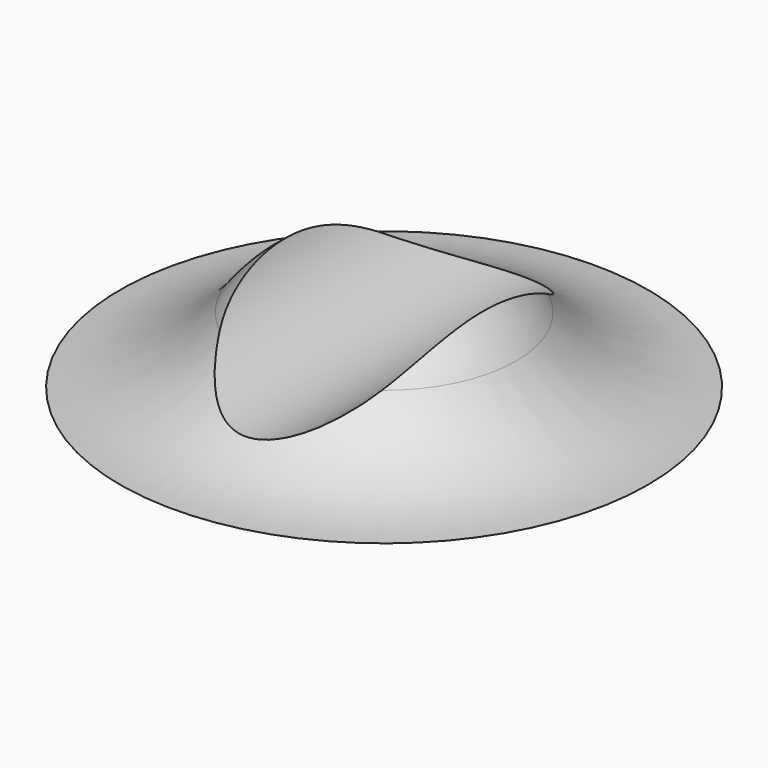
from build123d import *

# Parameters (mm, degrees)
F2_R     = 7.877214
F3_DEPTH = 50


with BuildPart() as f1:
    # F0 (on Front) → F1 (revolve)
    with BuildSketch(Plane.XZ):
        with BuildLine():
            Line((0, 10), (0, 0))
            Line((0, 0), (20, 0))
            ThreePointArc((20, 0), (14.40983, 1.31966), (10, 5))
            ThreePointArc((10, 5), (5.59017, 8.68034), (0, 10))
        make_face()
    revolve(axis=Axis((0, 0, 5), (0, 0, 1)))

    # F2 (on Front) → F3 (cut, symmetric)
    with BuildSketch(Plane.XZ):
        with Locations((0, 9.934433)):
            Circle(F2_R)
    extrude(amount=F3_DEPTH, both=True, mode=Mode.SUBTRACT)


solid = f1.part
